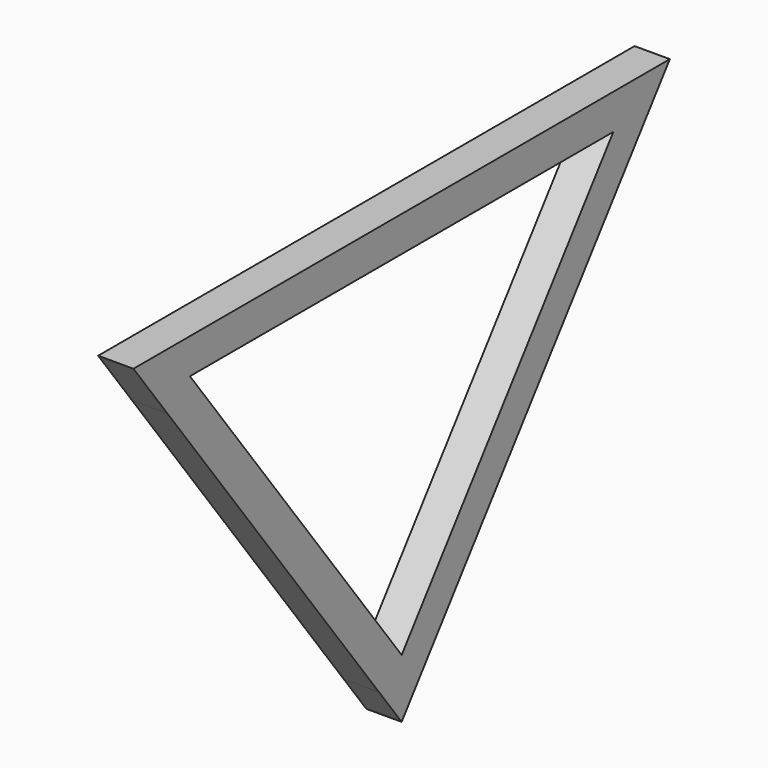
from build123d import *

# Parameters (mm, degrees)
F1_DEPTH = 5.08


with BuildPart() as f1:
    # F0 (on Right) → F1 (new body)
    with BuildSketch(Plane.YZ):
        Polygon((-35.573810339, 27.1448735148), (-35.573810339, 22.0602974296), (2.5212168694, 22.0602974296), (40.6162440777, 22.0602974296), (40.6162440777, 27.1448735148), align=None)
        Polygon((-39.6445272604, 19.0086872448), (-35.573810339, 22.0602974296), (-35.573810339, 27.1448735148), (-45.7443889554, 27.1448735148), align=None)
        Polygon((2.5212168694, -28.7568327039), (-35.573810339, 22.0602974296), (-39.6445272604, 19.0086872448), (-1.5472002365, -31.8067188336), align=None)
        Polygon((6.5896339752, -31.8067188336), (2.5212168694, -28.7568327039), (-1.5472002365, -31.8067188336), (2.5232048978, -37.2359524821), align=None)
        Polygon((40.6162440777, 22.0602974296), (2.5212168694, -28.7568327039), (6.5896339752, -31.8067188336), (44.6869609991, 19.0086872448), align=None)
        Polygon((40.6162440777, 27.1448735148), (40.6162440777, 22.0602974296), (44.6869609991, 19.0086872448), (50.7868226941, 27.1448735148), align=None)
    extrude(amount=F1_DEPTH)


solid = f1.part
